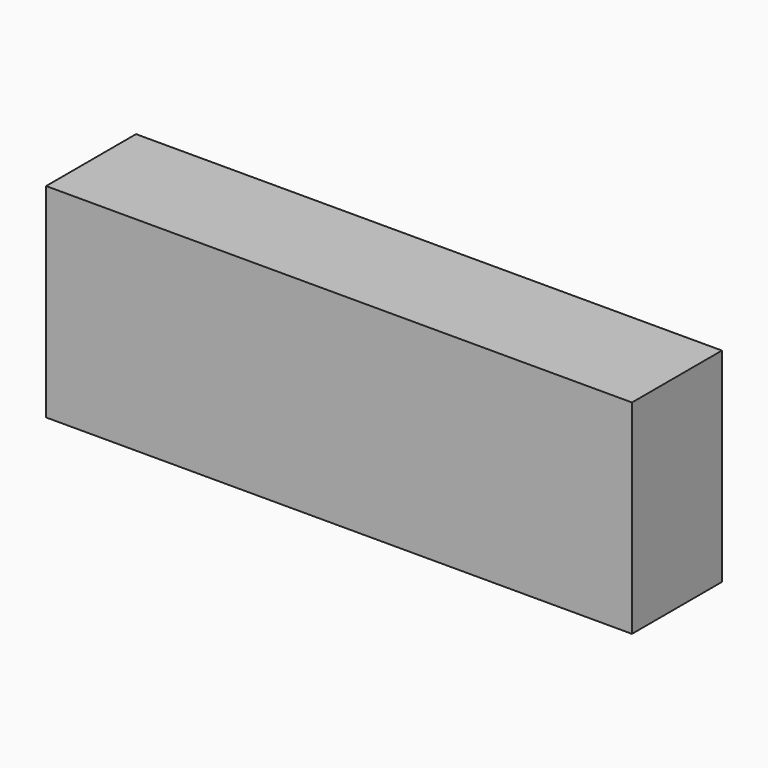
from build123d import *

# Parameters (mm, degrees)
F0_R     = 18.42934
F1_DEPTH = 25.4
F0_W     = 132.347376
F0_H     = 46.020787
F2_DEPTH = 25.4


with BuildPart() as f1:
    # F0 (on Front) → F1 (new body)
    with BuildSketch(Plane.XZ):
        with Locations((-41.358553, 39.253026)):
            Circle(F0_R)
    extrude(amount=F1_DEPTH)

    # F0 (on Front) → F2 (join)
    with BuildSketch(Plane.XZ):
        with Locations((1.052767, 38.501053)):
            Rectangle(F0_W, F0_H)
        with Locations((-41.358553, 39.253026)):
            Circle(F0_R, mode=Mode.SUBTRACT)
    extrude(amount=F2_DEPTH)


solid = f1.part
